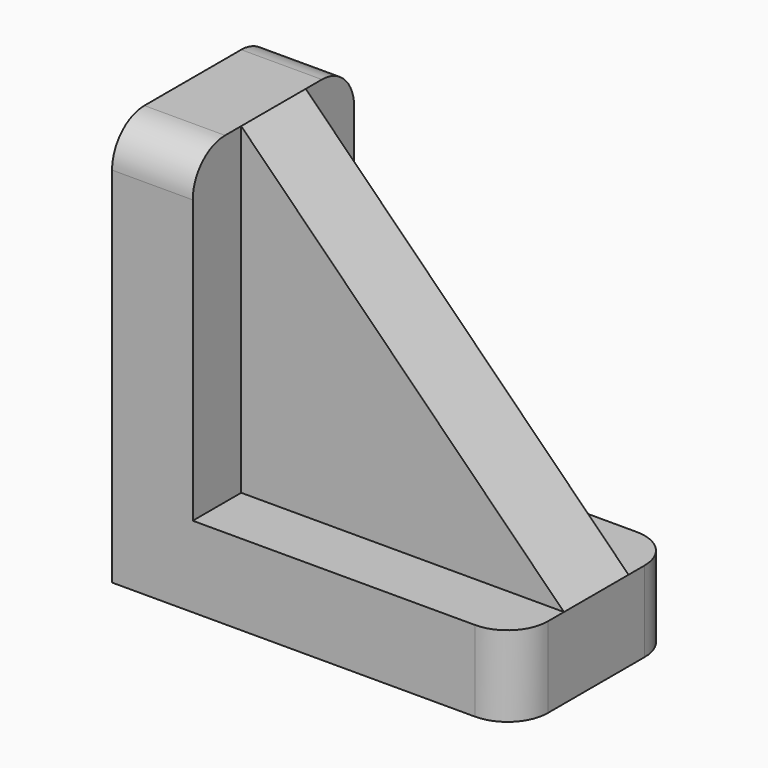
from build123d import *

# Parameters (mm, degrees)
F0_W     = 40
F0_H     = 10
F1_DEPTH = 12.5
F2_DEPTH = 5
F3_R     = 5


with BuildPart() as f1:
    # F0 (on Front) → F1 (new body, symmetric)
    with BuildSketch(Plane.XZ):
        Polygon((0, 50), (0, 0), (10, 0), (10, 10), (10, 50), align=None)
        with Locations((30, 5)):
            Rectangle(F0_W, F0_H)
    extrude(amount=F1_DEPTH, both=True)

    # F0 (on Front) → F2 (join, symmetric)
    with BuildSketch(Plane.XZ):
        Polygon((10, 50), (10, 10), (50, 10), align=None)
    extrude(amount=F2_DEPTH, both=True)

    # F3
    f3_edges = [f1.edges().sort_by_distance(p)[0] for p in [
        (50, -12.5, 5),
        (50, 12.5, 5),
        (5, 12.5, 50),
        (5, -12.5, 50),
    ]]
    fillet(f3_edges, radius=F3_R)


solid = f1.part
